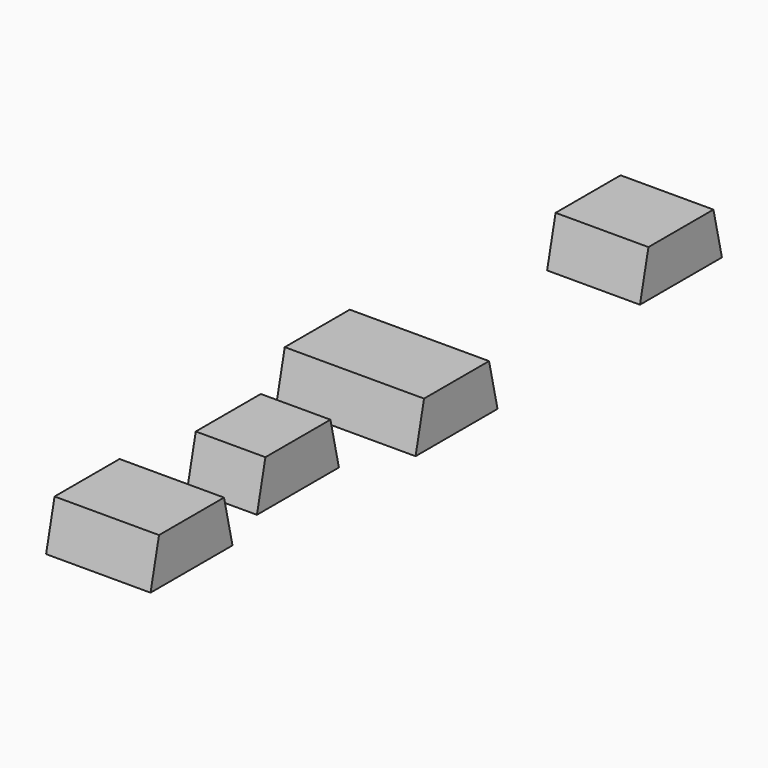
from build123d import *

# Parameters (mm, degrees)
F0_W   = 228.6
F0_H   = 168.148
F2_W   = 228.6
F2_H   = 133.35
F0_W_2 = 114.3
F2_W_2 = 114.3
F0_W_3 = 171.45
F2_W_3 = 171.45


with BuildPart() as f3:
    # F0 (on Top) → F3 section 0
    with BuildSketch(Plane.XY):
        Rectangle(F0_W, F0_H)
    # F2 (on offset) → F3 section 1
    with BuildSketch(Plane.XY.offset(76.2)):
        Rectangle(F2_W, F2_H)
    loft()


with BuildPart() as f4:
    # F0 (on Top) → F4 section 0
    with BuildSketch(Plane.XY):
        with Locations((0, -254)):
            Rectangle(F0_W_2, F0_H)
    # F2 (on offset) → F4 section 1
    with BuildSketch(Plane.XY.offset(76.2)):
        with Locations((0, -254)):
            Rectangle(F2_W_2, F2_H)
    loft()


with BuildPart() as f5:
    # F0 (on Top) → F5 section 0
    with BuildSketch(Plane.XY):
        with Locations((0, -508)):
            Rectangle(F0_W_3, F0_H)
    # F2 (on offset) → F5 section 1
    with BuildSketch(Plane.XY.offset(76.2)):
        with Locations((0, -508)):
            Rectangle(F2_W_3, F2_H)
    loft()


with BuildPart() as f6:
    # F0 (on Top) → F6 section 0
    with BuildSketch(Plane.XY):
        Polygon((0, 423.926), (76.2, 423.926), (76.2, 592.074), (-76.2, 592.074), (-76.2, 423.926), align=None)
    # F2 (on offset) → F6 section 1
    with BuildSketch(Plane.XY.offset(76.2)):
        Polygon((0, 441.325), (76.2, 441.325), (76.2, 574.675), (-76.2, 574.675), (-76.2, 441.325), align=None)
    loft()


solid = Compound([f3.part, f4.part, f5.part, f6.part])
